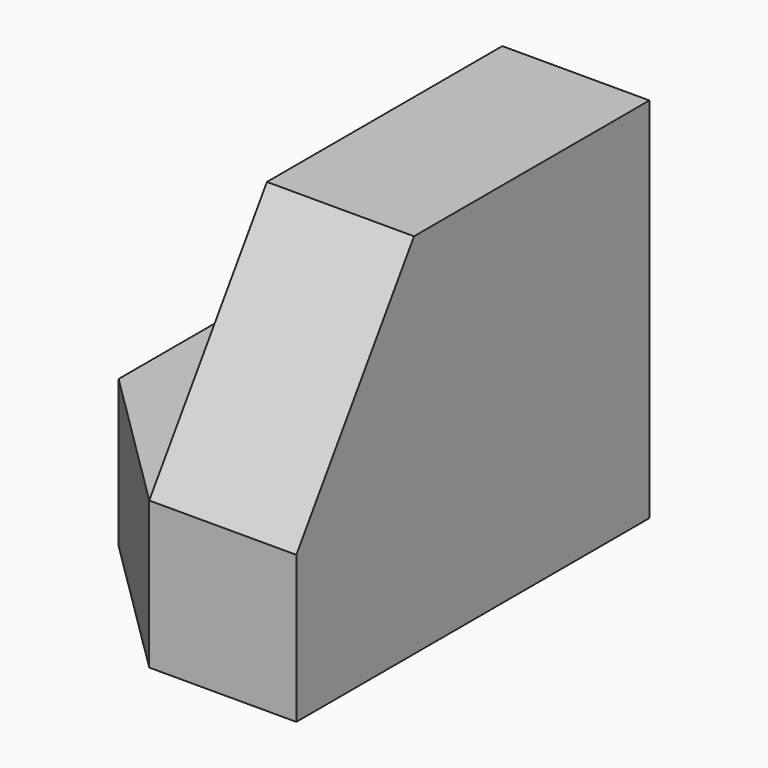
from build123d import *

# Parameters (mm, degrees)
F0_W     = 12.7
F0_H     = 12.7
F1_DEPTH = 38.1
F3_DEPTH = 12.7
F4_W     = 12.7
F4_H     = 12.7
F5_DEPTH = 38.1
F7_DEPTH = 25.4


with BuildPart() as f1:
    # F0 (on Front) → F1 (new body)
    with BuildSketch(Plane.XZ):
        with Locations((6.35, 6.35)):
            Rectangle(F0_W, F0_H)
    extrude(amount=F1_DEPTH)

    # F2 (on face) → F3 (join)
    with BuildSketch(Plane(origin=(0, 0, 0), x_dir=(0, -1, 0), z_dir=(-1, 0, 0))):
        Polygon((0, 12.7), (38.1, 12.7), (25.4, 31.75), (0, 31.75), align=None)
    extrude(amount=-F3_DEPTH)

    # F4 (on face) → F5 (join)
    with BuildSketch(Plane.XZ.offset(38.1)):
        with Locations((-6.35, 6.35)):
            Rectangle(F4_W, F4_H)
    extrude(amount=-F5_DEPTH)

    # F6 (on face) → F7 (cut)
    with BuildSketch(Plane.XY.offset(12.7)):
        Polygon((-12.7, -38.1), (0, -38.1), (-12.7, -25.530828), align=None)
    extrude(amount=-F7_DEPTH, mode=Mode.SUBTRACT)


solid = f1.part
